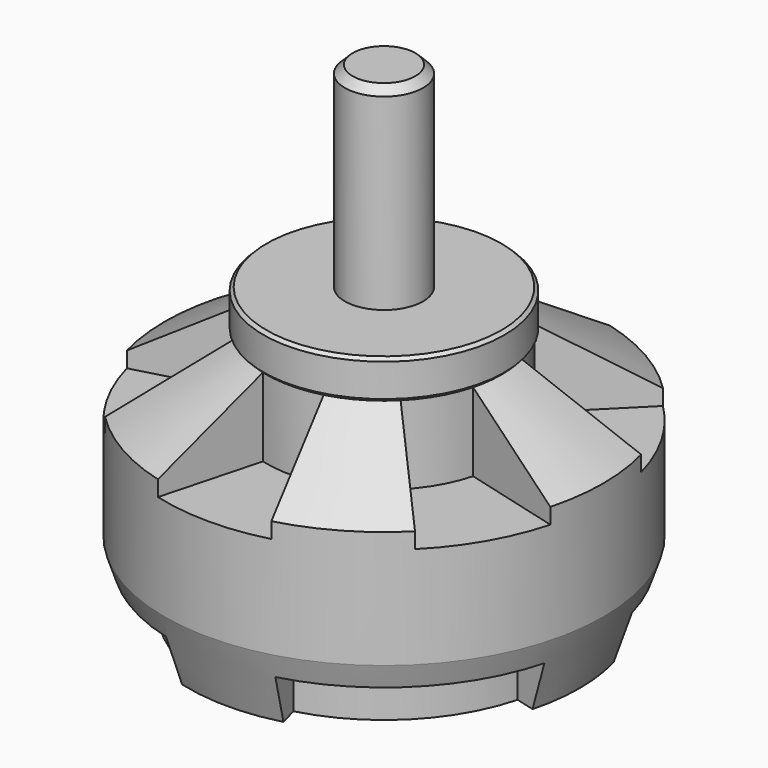
from build123d import *

# Parameters (mm, degrees)
F3_DEPTH = 5
F5_DEPTH = 3


with BuildPart() as f1:
    # F0 (on Front) → F1 (revolve)
    with BuildSketch(Plane.XZ):
        Polygon((0, 16), (0, 0), (12.5, 0), (14, 4.5), (14, 12), (7.5, 16), align=None)
    revolve(axis=Axis((0, 0, 8), (0, 0, -1)))

    # F2 (on face) → F3 (cut)
    with BuildSketch(Plane.XY.offset(16)):
        with BuildLine():
            ThreePointArc((-1.941143, 7.244444), (0, 7.5), (1.941143, 7.244444))
            Line((1.941143, 7.244444), (3.623467, 13.522962))
            ThreePointArc((3.623467, 13.522962), (0, 14), (-3.623467, 13.522962))
            Line((-3.623467, 13.522962), (-1.941143, 7.244444))
        make_face()
        with BuildLine():
            ThreePointArc((-7.244444, 1.941143), (-6.495191, 3.75), (-5.303301, 5.303301))
            Line((-5.303301, 5.303301), (-9.899495, 9.899495))
            ThreePointArc((-9.899495, 9.899495), (-12.124356, 7), (-13.522962, 3.623467))
            Line((-13.522962, 3.623467), (-7.244444, 1.941143))
        make_face()
        with BuildLine():
            ThreePointArc((-5.303301, -5.303301), (-6.495191, -3.75), (-7.244444, -1.941143))
            Line((-7.244444, -1.941143), (-13.522962, -3.623467))
            ThreePointArc((-13.522962, -3.623467), (-12.124356, -7), (-9.899495, -9.899495))
            Line((-9.899495, -9.899495), (-5.303301, -5.303301))
        make_face()
        with BuildLine():
            ThreePointArc((1.941143, -7.244444), (0, -7.5), (-1.941143, -7.244444))
            Line((-1.941143, -7.244444), (-3.623467, -13.522962))
            ThreePointArc((-3.623467, -13.522962), (0, -14), (3.623467, -13.522962))
            Line((3.623467, -13.522962), (1.941143, -7.244444))
        make_face()
        with BuildLine():
            ThreePointArc((7.244444, -1.941143), (6.495191, -3.75), (5.303301, -5.303301))
            Line((5.303301, -5.303301), (9.899495, -9.899495))
            ThreePointArc((9.899495, -9.899495), (12.124356, -7), (13.522962, -3.623467))
            Line((13.522962, -3.623467), (7.244444, -1.941143))
        make_face()
        with BuildLine():
            ThreePointArc((5.303301, 5.303301), (6.495191, 3.75), (7.244444, 1.941143))
            Line((7.244444, 1.941143), (13.522962, 3.623467))
            ThreePointArc((13.522962, 3.623467), (12.124356, 7), (9.899495, 9.899495))
            Line((9.899495, 9.899495), (5.303301, 5.303301))
        make_face()
    extrude(amount=-F3_DEPTH, mode=Mode.SUBTRACT)

    # F4 (on face) → F5 (cut)
    with BuildSketch(Plane(origin=(0, 0, 0), x_dir=(1, 0, 0), z_dir=(0, 0, -1))):
        with BuildLine():
            ThreePointArc((2.911714, 10.866666), (7.954951, 7.954951), (10.866666, 2.911714))
            Line((10.866666, 2.911714), (13.522962, 3.623467))
            ThreePointArc((13.522962, 3.623467), (9.899495, 9.899495), (3.623467, 13.522962))
            Line((3.623467, 13.522962), (2.911714, 10.866666))
        make_face()
        with BuildLine():
            Line((-2.911714, 10.866666), (-3.623467, 13.522962))
            ThreePointArc((-3.623467, 13.522962), (-9.899495, 9.899495), (-13.522962, 3.623467))
            Line((-13.522962, 3.623467), (-10.866666, 2.911714))
            ThreePointArc((-10.866666, 2.911714), (-7.954951, 7.954951), (-2.911714, 10.866666))
        make_face()
        with BuildLine():
            Line((-10.866666, -2.911714), (-13.522962, -3.623467))
            ThreePointArc((-13.522962, -3.623467), (-9.899495, -9.899495), (-3.623467, -13.522962))
            Line((-3.623467, -13.522962), (-2.911714, -10.866666))
            ThreePointArc((-2.911714, -10.866666), (-7.954951, -7.954951), (-10.866666, -2.911714))
        make_face()
        with BuildLine():
            Line((2.911714, -10.866666), (3.623467, -13.522962))
            ThreePointArc((3.623467, -13.522962), (9.899495, -9.899495), (13.522962, -3.623467))
            Line((13.522962, -3.623467), (10.866666, -2.911714))
            ThreePointArc((10.866666, -2.911714), (7.954951, -7.954951), (2.911714, -10.866666))
        make_face()
    extrude(amount=-F5_DEPTH, mode=Mode.SUBTRACT)

    # F6 (on Front) → F7 (revolve)
    with BuildSketch(Plane.XZ):
        Polygon((0, 31), (0, 16), (7.5, 16), (7.7, 16.2), (7.7, 18.3), (7.5, 18.5), (2.5, 18.5), (2.5, 30.5), (2, 31), align=None)
    revolve(axis=Axis((0, 0, 23.5), (0, 0, -1)))


solid = f1.part
